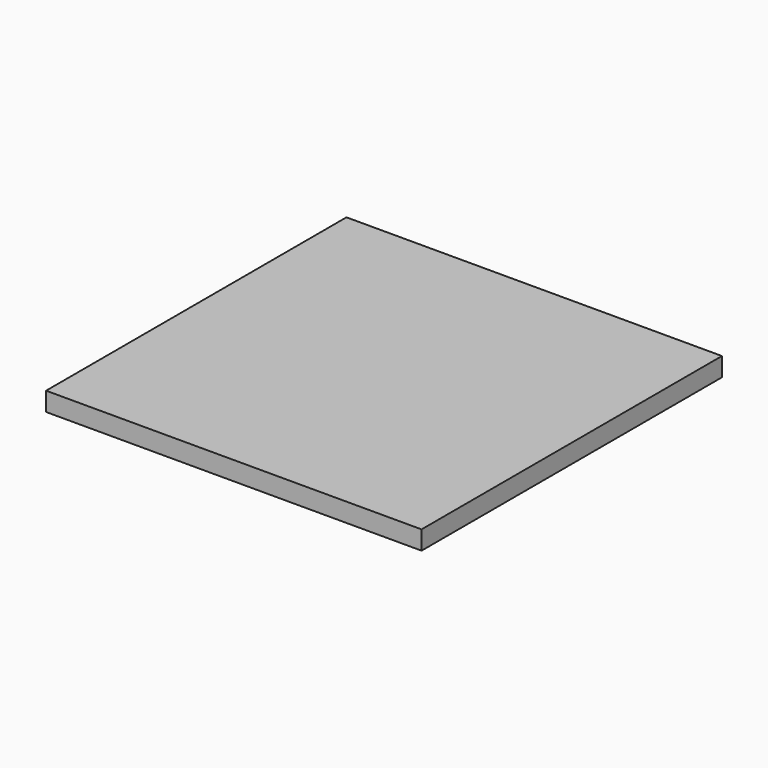
from build123d import *

# Parameters (mm, degrees)
F0_W     = 100
F0_H     = 100
F1_DEPTH = 5


with BuildPart() as f1:
    # F0 (on Top) → F1 (new body)
    with BuildSketch(Plane.XY):
        Rectangle(F0_W, F0_H)
        Rectangle(F0_W, F0_H)
    extrude(amount=-F1_DEPTH)


solid = f1.part
